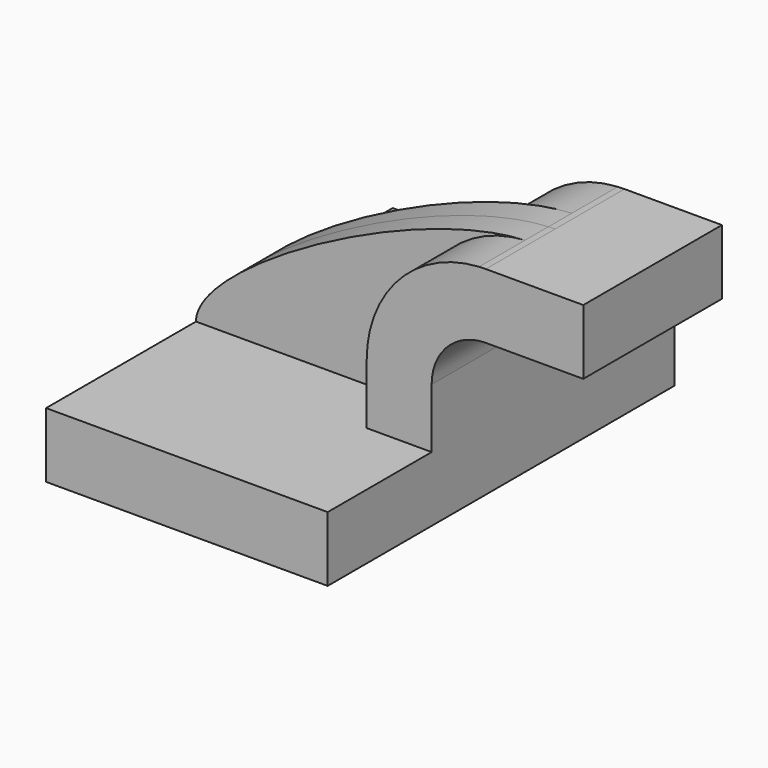
from build123d import *

# Parameters (mm, degrees)
F1_DEPTH = 63.5
F0_W     = 25.2919347882
F0_H     = 19.05
F2_DEPTH = 25.4
F3_DEPTH = 8.5725


with BuildPart() as f1:
    # F0 (on Front) → F1 (new body, symmetric)
    with BuildSketch(Plane.XZ):
        Polygon((22.225, 9.525), (-41.275, 9.525), (-41.275, -9.525), (41.275, -9.525), (41.275, 9.525), align=None)
    extrude(amount=F1_DEPTH, both=True)

    # F0 (on Front) → F2 (join, symmetric)
    with BuildSketch(Plane.XZ):
        with BuildLine():
            Line((22.225, 27.0002), (22.225, 9.525))
            Line((22.225, 9.525), (41.275, 9.525))
            Line((41.275, 9.525), (41.275, 27.0002))
            ThreePointArc((41.275, 27.0002), (45.9246798487, 38.2255201513), (57.15, 42.8752))
            Line((57.15, 42.8752), (60.4330652118, 42.8752))
            Line((60.4330652118, 42.8752), (60.4330652118, 61.9252))
            Line((60.4330652118, 61.9252), (57.15, 61.9252))
            add(Edge.make_bspline(
                [(55.1864649446, 61.8699598943), (55.8526018083, 61.9015411095), (56.5073505407, 61.9200895907), (57.15, 61.9252)],
                knots=[109.3417513955, 109.3417513955, 109.3417513955, 109.3417513955, 111.5045361635, 111.5045361635, 111.5045361635, 111.5045361635], degree=3))
            ThreePointArc((55.1864649446, 61.8699598943), (31.7695736165, 50.9916480929), (22.225, 27.0002))
        make_face()
        with Locations((73.0790326059, 52.4002)):
            Rectangle(F0_W, F0_H)
    extrude(amount=F2_DEPTH, both=True)

    # F0 (on Front) → F3 (join, symmetric)
    with BuildSketch(Plane.XZ):
        with BuildLine():
            add(Edge.make_bspline(
                [(-41.275, 9.525), (-41.275, 25.3662331122), (21.509248225, 60.2733399101), (55.1864649446, 61.8699598943)],
                knots=[0, 0, 0, 0, 109.3417513955, 109.3417513955, 109.3417513955, 109.3417513955], degree=3))
            Line((-41.275, 9.525), (22.225, 9.525))
            Line((22.225, 9.525), (22.225, 27.0002))
            ThreePointArc((22.225, 27.0002), (31.7695736165, 50.9916480929), (55.1864649446, 61.8699598943))
        make_face()
    extrude(amount=F3_DEPTH, both=True)


solid = f1.part
